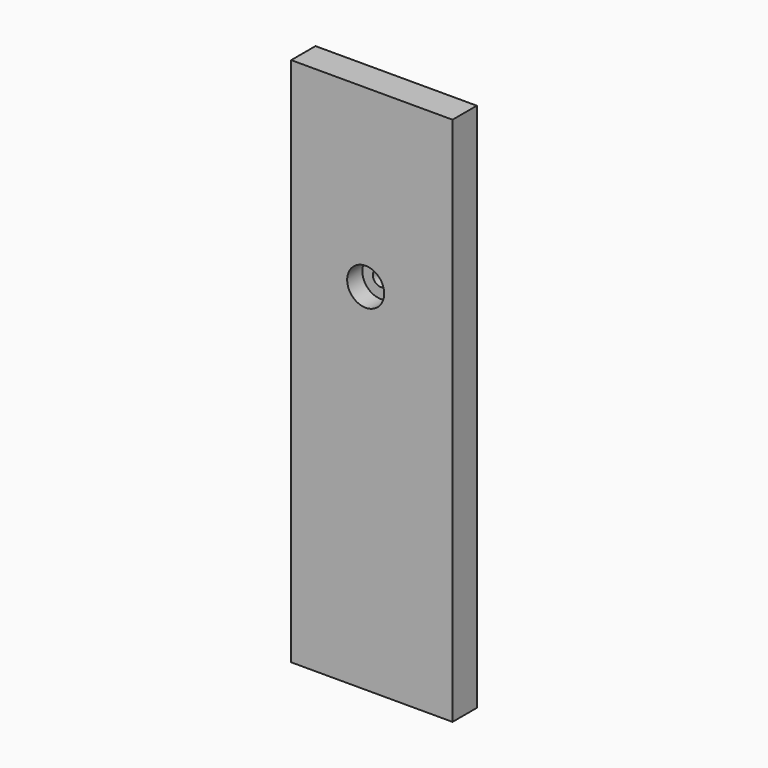
from build123d import *

# Parameters (mm, degrees)
F0_W           = 42.5
F0_H           = 139.652
F1_DEPTH       = 8
F3_D           = 4.2
F3_DEPTH       = 14.4
F3_CBORE_D     = 9.75
F3_CBORE_DEPTH = 5


with BuildPart() as f1:
    # F0 (on Front) → F1 (new body)
    with BuildSketch(Plane.XZ):
        with Locations((1.628289, 25.456638)):
            Rectangle(F0_W, F0_H)
    extrude(amount=F1_DEPTH)

    # F3
    with Locations(Plane.XZ.offset(8)):
        with Locations((0, 49.106237)):
            CounterBoreHole(F3_D / 2, F3_CBORE_D / 2, F3_CBORE_DEPTH, depth=F3_DEPTH)


solid = f1.part
